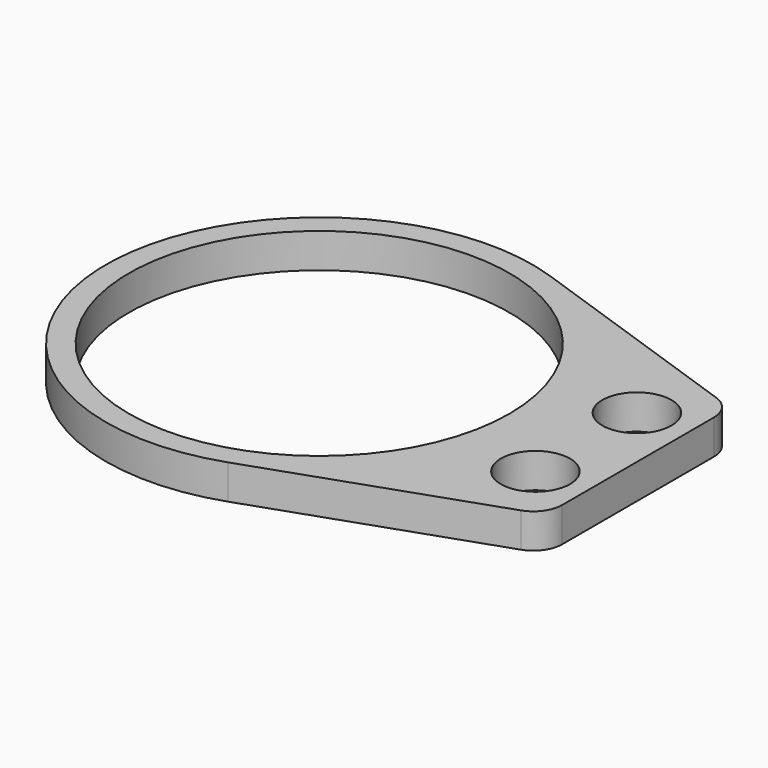
from build123d import *

# Parameters (mm, degrees)
F0_R     = 33
F0_R_2   = 6
F1_DEPTH = 6


with BuildPart() as f1:
    # F0 (on Top) → F1 (new body)
    with BuildSketch(Plane.XY):
        with BuildLine():
            ThreePointArc((12.112781, -34.961129), (30.142768, -21.457249), (37, 0))
            ThreePointArc((37, 0), (30.142768, 21.457249), (12.112781, 34.961129))
            ThreePointArc((12.112781, 34.961129), (-37, 0), (12.112781, -34.961129))
        make_face()
        Circle(F0_R, mode=Mode.SUBTRACT)
        with BuildLine():
            ThreePointArc((12.112781, 34.961129), (30.142768, 21.457249), (37, 0))
            ThreePointArc((37, 0), (30.142768, -21.457249), (12.112781, -34.961129))
            Line((12.112781, -34.961129), (51.931961, -21.165207))
            ThreePointArc((51.931961, -21.165207), (54.368446, -19.340358), (55.295099, -16.44073))
            Line((55.295099, -16.44073), (55.295099, 16.44073))
            ThreePointArc((55.295099, 16.44073), (54.368446, 19.340358), (51.931961, 21.165207))
            Line((51.931961, 21.165207), (12.112781, 34.961129))
        make_face()
        with Locations((46.295099, -11)):
            Circle(F0_R_2, mode=Mode.SUBTRACT)
        with Locations((46.295099, 11)):
            Circle(F0_R_2, mode=Mode.SUBTRACT)
    extrude(amount=F1_DEPTH)


solid = f1.part
